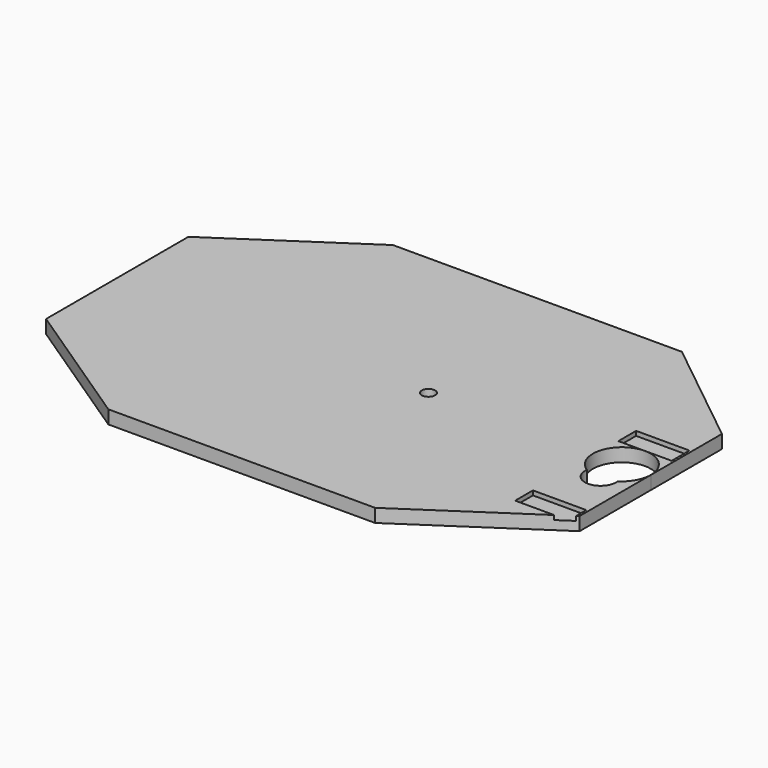
from build123d import *

# Parameters (mm, degrees)
BOX003_W          = 12
BOX003_H          = 5
BOX003_DEPTH      = 9
BOX002_W          = 12
BOX002_H          = 5
BOX002_DEPTH      = 9
CYLINDER007_R     = 3.5
CYLINDER007_DEPTH = 10
CYLINDER006_R     = 6.5
CYLINDER006_DEPTH = 10
BOX001_W          = 11
BOX001_H          = 4
BOX001_DEPTH      = 9
CYLINDER005_R     = 1.5
CYLINDER005_DEPTH = 20
PAD003_DEPTH      = 3
CYLINDER001_R     = 9
CYLINDER001_DEPTH = 9


with BuildPart() as cube003:
    # Box003 → Box003 (new body)
    with BuildSketch(Plane(origin=(37.5, -22.5, 9), x_dir=(1, 0, 0), z_dir=(0, 0, 1))):
        with Locations((6, 2.5)):
            Rectangle(BOX003_W, BOX003_H)
    extrude(amount=BOX003_DEPTH)


with BuildPart() as fusion006:
    # Box002 → Box002 (new body)
    with BuildSketch(Plane(origin=(37.5, 6.5, 9), x_dir=(1, 0, 0), z_dir=(0, 0, 1))):
        with Locations((6, 2.5)):
            Rectangle(BOX002_W, BOX002_H)
    extrude(amount=BOX002_DEPTH)

    # Fusion006: union Cube003
    add(cube003.part)


with BuildPart() as cylinder007:
    # Cylinder007 → Cylinder007 (new body)
    with BuildSketch(Plane(origin=(43.5, -6, 3), x_dir=(1, 0, 0), z_dir=(0, 0, 1))):
        Circle(CYLINDER007_R)
    extrude(amount=CYLINDER007_DEPTH)


with BuildPart() as fusion005:
    # Cylinder006 → Cylinder006 (new body)
    with BuildSketch(Plane(origin=(43.5, 0, 3), x_dir=(1, 0, 0), z_dir=(0, 0, 1))):
        Circle(CYLINDER006_R)
    extrude(amount=CYLINDER006_DEPTH)

    # Fusion005: union Cylinder007
    add(cylinder007.part)


with BuildPart() as cube001:
    # Box001 → Box001 (new body)
    with BuildSketch(Plane(origin=(38, 7, 9), x_dir=(1, 0, 0), z_dir=(0, 0, 1))):
        with Locations((5.5, 2)):
            Rectangle(BOX001_W, BOX001_H)
    extrude(amount=BOX001_DEPTH)


with BuildPart() as clone_of_cube001:
    # Clone001 base: copy of Cube001
    add(cube001.part)


with BuildPart() as clone_of_cube001_1:
    # Clone001 placement: moved
    add(clone_of_cube001.part.moved(Location((0, -29, 0))))


with BuildPart() as cylinder005:
    # Cylinder005 → Cylinder005 (new body)
    with BuildSketch(Plane.XY.offset(-4)):
        Circle(CYLINDER005_R)
    extrude(amount=CYLINDER005_DEPTH)


with BuildPart() as pad003:
    # Sketch003 → Pad003 (new body)
    with BuildSketch(Plane(origin=(-30, 0, 7), x_dir=(1, 0, 0), z_dir=(0, 0, 1))):
        Polygon((-40, 20), (-10, 40), (55, 40), (80, 20), (80, -20), (50, -40), (-10, -40), (-40, -20), align=None)
    extrude(amount=PAD003_DEPTH)


with BuildPart() as top_panel001:
    # Cylinder001 → Cylinder001 (new body)
    with BuildSketch(Plane.XY):
        Circle(CYLINDER001_R)
    extrude(amount=CYLINDER001_DEPTH)

    # Fusion003: union Pad003
    add(pad003.part)

    # Cut004: cut Cylinder005
    add(cylinder005.part, mode=Mode.SUBTRACT)

    # Fusion004: union Cube001, Clone of Cube001
    add(cube001.part)
    add(clone_of_cube001_1.part)

    # Cut005: cut Fusion005
    add(fusion005.part, mode=Mode.SUBTRACT)

    # Cut006: cut Fusion006
    add(fusion006.part, mode=Mode.SUBTRACT)


solid = top_panel001.part
